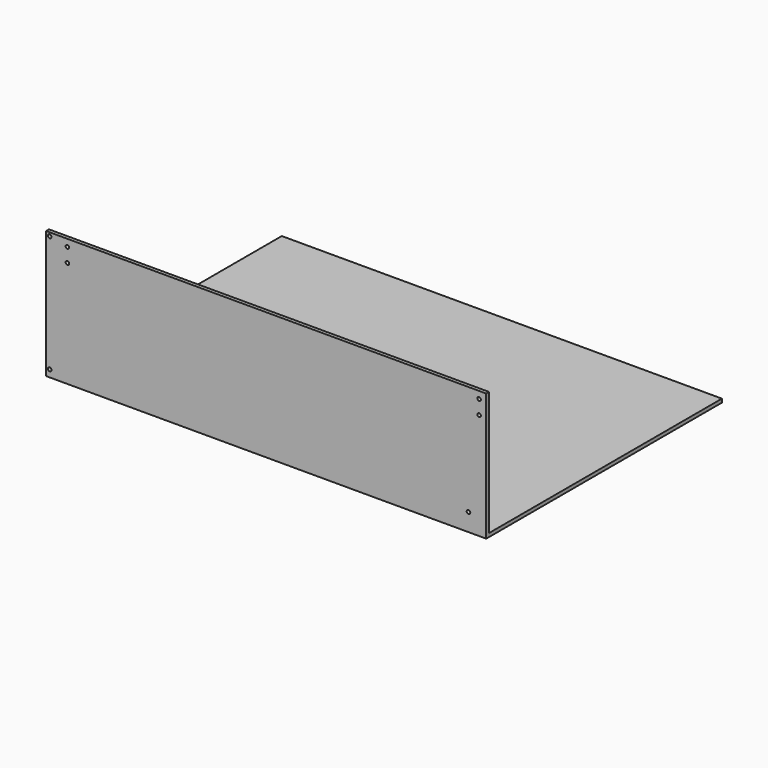
from build123d import *

# Parameters (mm, degrees)
F0_W      = 620
F0_H      = 415
F1_DEPTH  = 5
F2_W      = 620
F2_H      = 5
F3_DEPTH  = 175
F5_D      = 5
F7_D      = 5
F9_D      = 5
F11_D     = 5
F13_D     = 5
F15_D     = 5
F17_D     = 5
F19_D     = 5
F21_D     = 5
F21_DEPTH = 11


with BuildPart() as f1:
    # F0 (on Top) → F1 (new body)
    with BuildSketch(Plane.XY):
        Rectangle(F0_W, F0_H)
    extrude(amount=F1_DEPTH)

    # F2 (on face) → F3 (join)
    with BuildSketch(Plane.XY.offset(5)):
        with Locations((0, -205)):
            Rectangle(F2_W, F2_H)
    extrude(amount=F3_DEPTH)

    # F5 (through all)
    with Locations(Plane.XZ.offset(207.5)):
        with Locations((300, 170)):
            Hole(F5_D / 2)

    # F7 (through all)
    with Locations(Plane.XZ.offset(207.5)):
        with Locations((300, 150)):
            Hole(F7_D / 2)

    # F9 (through all)
    with Locations(Plane.XZ.offset(207.5)):
        with Locations((-280, 170)):
            Hole(F9_D / 2)

    # F11 (through all)
    with Locations(Plane.XZ.offset(207.5)):
        with Locations((-280, 150)):
            Hole(F11_D / 2)

    # F13 (through all)
    with Locations(Plane.XZ.offset(207.5)):
        with Locations((-305, 175)):
            Hole(F13_D / 2)

    # F15 (through all)
    with Locations(Plane.XZ.offset(207.5)):
        with Locations((-305, 10)):
            Hole(F15_D / 2)

    # F17 (through all)
    with Locations(Plane(origin=(0, 0, 0), x_dir=(1, 0, 0), z_dir=(0, 0, -1))):
        with Locations((290, 195)):
            Hole(F17_D / 2)

    # F19 (through all)
    with Locations(Plane(origin=(0, 0, 0), x_dir=(1, 0, 0), z_dir=(0, 0, -1))):
        with Locations((-290, 195)):
            Hole(F19_D / 2)

    # F21
    with Locations(Plane.XZ.offset(207.5)):
        with Locations((285, 25)):
            Hole(F21_D / 2, depth=F21_DEPTH)


solid = f1.part
